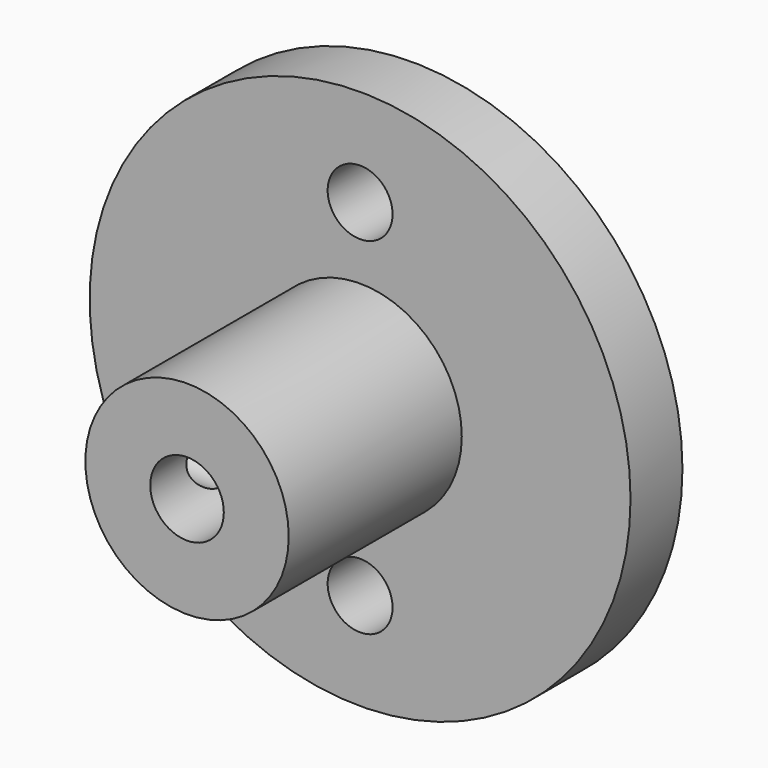
from build123d import *

# Parameters (mm, degrees)
F2_R     = 12.5
F2_R_2   = 1.5
F2_R_3   = 1.7
F3_DEPTH = 3
F4_R     = 4.7
F4_R_2   = 1.7
F5_DEPTH = 10
F6_R     = 1.25
F7_DEPTH = 25


with BuildPart() as f3:
    # F2 (on Front) → F3 (new body)
    with BuildSketch(Plane.XZ):
        Circle(F2_R)
        with Locations((0, -8)):
            Circle(F2_R_2, mode=Mode.SUBTRACT)
        Circle(F2_R_3, mode=Mode.SUBTRACT)
        with Locations((0, 8)):
            Circle(F2_R_2, mode=Mode.SUBTRACT)
    extrude(amount=F3_DEPTH)

    # F4 (on face) → F5 (join)
    with BuildSketch(Plane.XZ.offset(3)):
        Circle(F4_R)
        Circle(F4_R_2, mode=Mode.SUBTRACT)
    extrude(amount=F5_DEPTH)

    # F6 (on Right) → F7 (cut)
    with BuildSketch(Plane.YZ):
        with Locations((-9.6666666667, 0)):
            Circle(F6_R)
    extrude(amount=-F7_DEPTH, mode=Mode.SUBTRACT)


solid = f3.part
